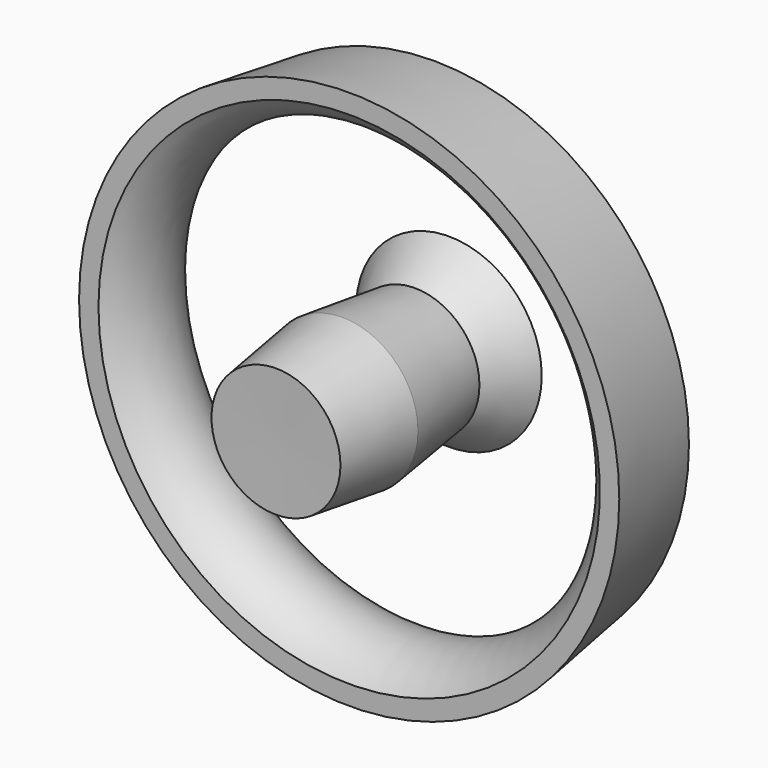
from build123d import *


with BuildPart() as f1:
    # F0 (on Top) → F1 (revolve)
    with BuildSketch(Plane.XY):
        Polygon((33.669836, 44.675098), (22.377227, 44.675098), (20.74403, 32.450061), (14.760395, 6.381012), (12.39499, -11.324853), (7.018376, -11.122995), (7.018376, -17.241059), (25.54933, -17.484421), (28.737619, 6.381012), (25.54933, 32.450061), align=None)
        with BuildLine():
            Line((-70.61433, 8.808441), (-65.035649, 8.808441))
            ThreePointArc((-65.035649, 8.808441), (-57.121198, 24.403393), (-66.210113, 39.344367))
            Line((-66.210113, 39.344367), (-70.61433, 8.808441))
        make_face()
    revolve(axis=Axis((7.018376, 20.487002, 0), (0, 1, 0)))


solid = f1.part
